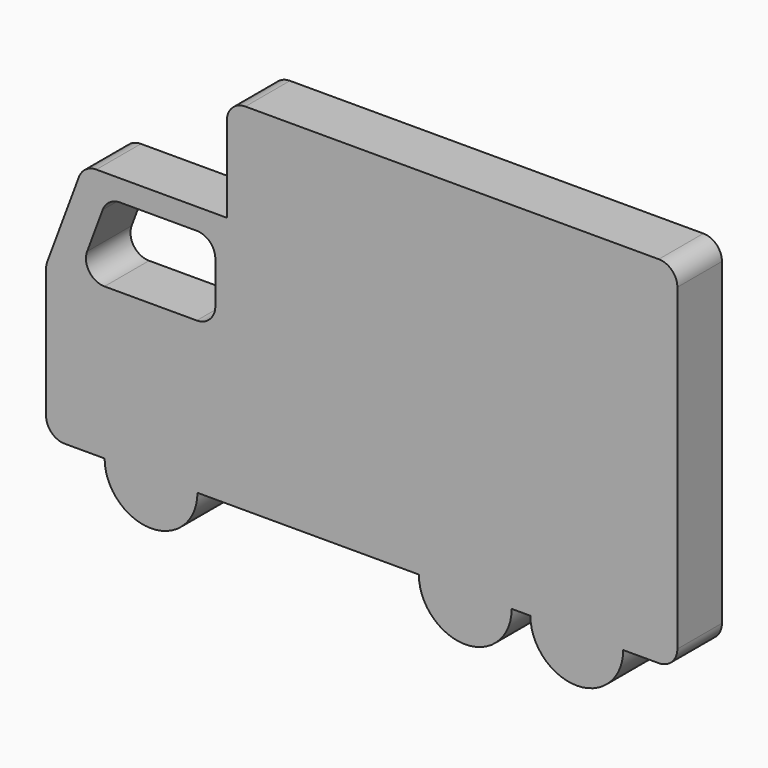
from build123d import *

# Parameters (mm, degrees)
F1_DEPTH = 15


with BuildPart() as f1:
    # F0 (on Front) → F1 (new body)
    with BuildSketch(Plane.XZ):
        with BuildLine():
            Line((-33.752365, 39.558059), (-68.882801, 39.558059))
            ThreePointArc((-68.882801, 39.558059), (-71.734566, 38.665058), (-73.567679, 36.305034))
            Line((-73.567679, 36.305034), (-82.103911, 13.413337))
            ThreePointArc((-82.103911, 13.413337), (-82.339622, 12.553946), (-82.419033, 11.666363))
            Line((-82.419033, 11.666363), (-82.419033, -23.209643))
            ThreePointArc((-82.419033, -23.209643), (-80.954567, -26.745177), (-77.419033, -28.209643))
            Line((-77.419033, -28.209643), (-66.658043, -28.209643))
            ThreePointArc((-66.658043, -28.209643), (-54.158043, -40.709643), (-41.658043, -28.209643))
            Line((-41.658043, -28.209643), (-33.752365, -28.209643))
            Line((-33.752365, -28.209643), (17.967091, -28.209643))
            ThreePointArc((17.967091, -28.209643), (30.467091, -40.709643), (42.967091, -28.209643))
            Line((42.967091, -28.209643), (48.002436, -28.209643))
            ThreePointArc((48.002436, -28.209643), (60.502436, -40.709643), (73.002436, -28.209643))
            Line((73.002436, -28.209643), (82.580967, -28.209643))
            ThreePointArc((82.580967, -28.209643), (86.116501, -26.745177), (87.580967, -23.209643))
            Line((87.580967, -23.209643), (87.580967, 62.558053))
            ThreePointArc((87.580967, 62.558053), (86.116501, 66.093587), (82.580967, 67.558053))
            Line((82.580967, 67.558053), (-28.752365, 67.558053))
            ThreePointArc((-28.752365, 67.558053), (-32.287899, 66.093587), (-33.752365, 62.558053))
            Line((-33.752365, 62.558053), (-33.752365, 39.558059))
        make_face()
        with BuildLine():
            ThreePointArc((-67.172356, 30.581145), (-65.339243, 32.941169), (-62.487478, 33.834171))
            Line((-62.487478, 33.834171), (-41.83839, 33.834171))
            ThreePointArc((-41.83839, 33.834171), (-38.302856, 32.369704), (-36.83839, 28.834171))
            Line((-36.83839, 28.834171), (-36.83839, 17.568271))
            ThreePointArc((-36.83839, 17.568271), (-38.302856, 14.032737), (-41.83839, 12.568271))
            Line((-41.83839, 12.568271), (-66.688492, 12.568271))
            ThreePointArc((-66.688492, 12.568271), (-70.795491, 14.716506), (-71.37337, 19.315245))
            Line((-71.37337, 19.315245), (-67.172356, 30.581145))
        make_face(mode=Mode.SUBTRACT)
    extrude(amount=F1_DEPTH)


solid = f1.part
